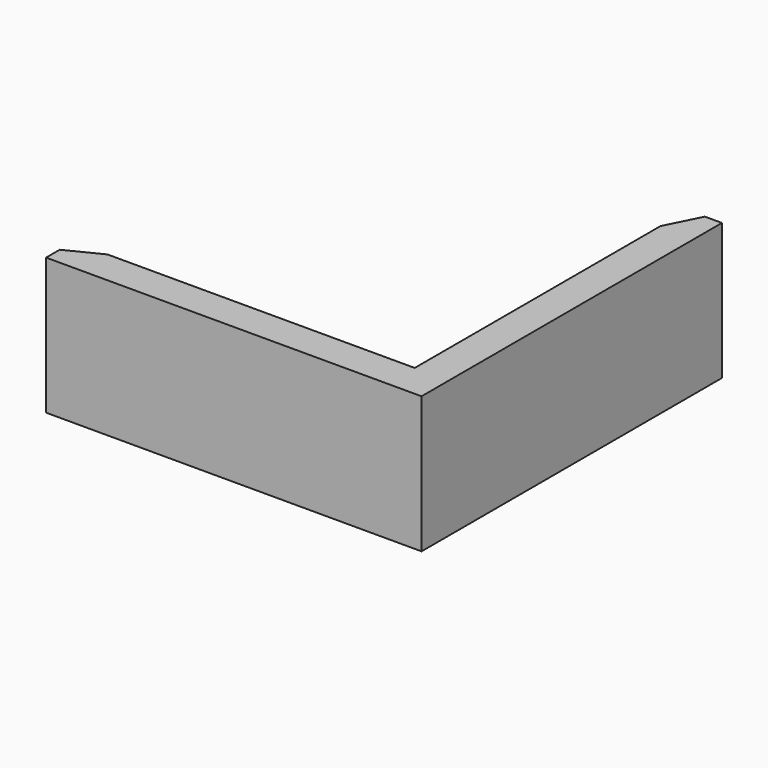
from build123d import *

# Parameters (mm, degrees)
F1_DEPTH = 25.4
F2_DEPTH = 6.35
F3_DEPTH = 6.35
F4_SIZE2 = 6.35
F4_SIZE  = 3.175
F5_SIZE2 = 3.175
F5_SIZE  = 6.35


with BuildPart() as f1:
    # F0 (on Top) → F1 (new body)
    with BuildSketch(Plane.XY):
        Polygon((25.4, 25.4), (25.4, -25.4), (-25.4, -25.4), (-31.75, -25.4), (-31.75, -31.75), (31.75, -31.75), (31.75, 31.75), (25.4, 31.75), align=None)
    extrude(amount=F1_DEPTH)

    # F2 (add): a face of the model
    f2_faces = [f1.faces().sort_by_distance(p)[0] for p in [
        (-31.75, -28.575, 12.7),
    ]]
    extrude(f2_faces, amount=F2_DEPTH)

    # F3 (add): a face of the model
    f3_faces = [f1.faces().sort_by_distance(p)[0] for p in [
        (28.575, 31.75, 12.7),
    ]]
    extrude(f3_faces, amount=F3_DEPTH)

    # F4
    f4_edges = [f1.edges().sort_by_distance(p)[0] for p in [
        (-38.1, -25.4, 12.7),
    ]]
    chamfer(f4_edges, length=F4_SIZE, length2=F4_SIZE2)

    # F5
    f5_edges = [f1.edges().sort_by_distance(p)[0] for p in [
        (25.4, 38.1, 12.7),
    ]]
    chamfer(f5_edges, length=F5_SIZE, length2=F5_SIZE2)


solid = f1.part
